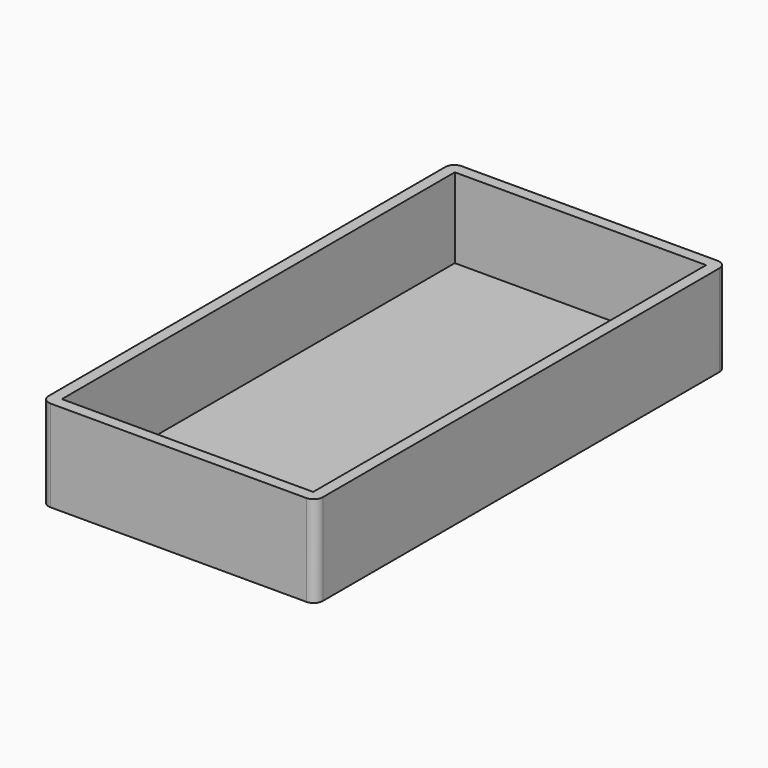
from build123d import *

# Parameters (mm, degrees)
F0_W     = 38.1
F0_H     = 71.4375
F1_DEPTH = 12.7
F2_T     = -1.5875
F3_R     = 1.27


with BuildPart() as f1:
    # F0 (on Top) → F1 (new body)
    with BuildSketch(Plane.XY):
        Rectangle(F0_W, F0_H)
    extrude(amount=F1_DEPTH)

    # F2
    f2_openings = [f1.faces().sort_by_distance(p)[0] for p in [
        (0, 0, 12.7),
    ]]
    offset(amount=F2_T, openings=f2_openings)

    # F3
    f3_edges = [f1.edges().sort_by_distance(p)[0] for p in [
        (-19.05, -35.71875, 6.35),
        (19.05, -35.71875, 6.35),
        (-19.05, 35.71875, 6.35),
        (19.05, 35.71875, 6.35),
    ]]
    fillet(f3_edges, radius=F3_R)


solid = f1.part
